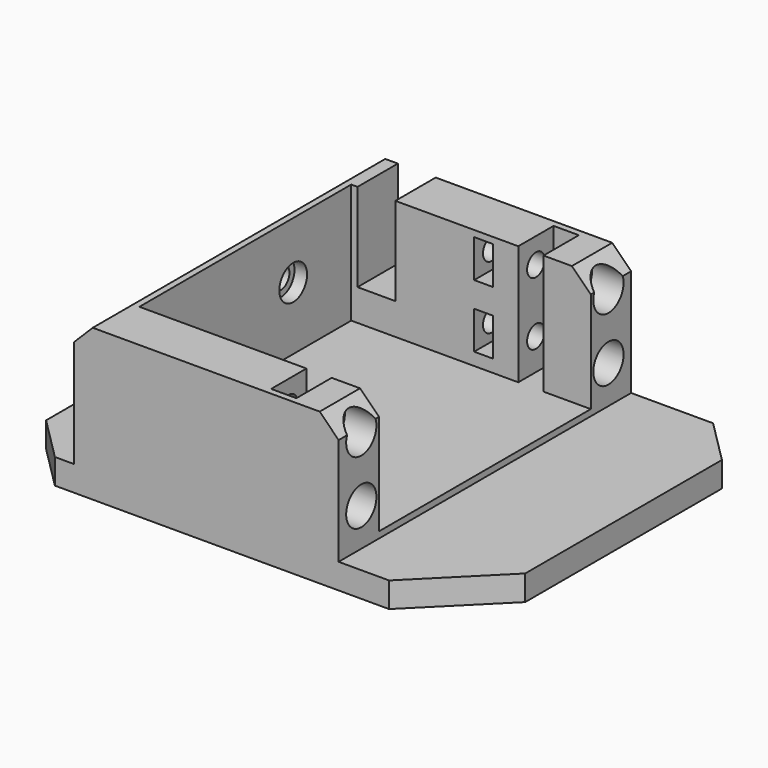
from build123d import *

# Parameters (mm, degrees)
BOX056_W                = 72
BOX056_H                = 58
BOX056_DEPTH            = 4
BOX024_W                = 6
BOX024_H                = 36
BOX024_DEPTH            = 23
CYLINDER011_R           = 2.75
CYLINDER011_DEPTH       = 74.5
CYLINDER011_PITCH_ANGLE = 90
CYLINDER008_R           = 1.75
CYLINDER008_DEPTH       = 21.5
CYLINDER008_PITCH_ANGLE = 90
CYLINDER009_R           = 3
CYLINDER009_DEPTH       = 21.5
CYLINDER009_PITCH_ANGLE = 90
BOX007_W                = 3
BOX007_H                = 56
BOX007_DEPTH            = 6
BOX008_W                = 3
BOX008_H                = 56
BOX008_DEPTH            = 6
BOX006_W                = 4
BOX006_H                = 56
BOX006_DEPTH            = 21
CYLINDER003_R           = 1.75
CYLINDER003_DEPTH       = 74.5
CYLINDER003_PITCH_ANGLE = 90
BOX003_W                = 28
BOX003_H                = 88
BOX003_DEPTH            = 38
BOX002_W                = 28
BOX002_H                = 88
BOX002_DEPTH            = 38
BOX001_W                = 47
BOX001_H                = 42
BOX001_DEPTH            = 25
BOX_W                   = 72
BOX_H                   = 58
BOX_DEPTH               = 24
FILLET_R                = 10
CHAMFER_SIZE            = 3
CHAMFER110_1_SIZE       = 12
CHAMFER110_2_SIZE       = 7


with BuildPart() as cubo006:
    # Box056 → Box056 (new body)
    with BuildSketch(Plane(origin=(-15, -29, -2), x_dir=(1, 0, 0), z_dir=(0, 0, 1))):
        with Locations((36, 29)):
            Rectangle(BOX056_W, BOX056_H)
    extrude(amount=BOX056_DEPTH)


with BuildPart() as cube024:
    # Box024 → Box024 (new body)
    with BuildSketch(Plane(origin=(0, 19, 7), x_dir=(1, 0, 0), z_dir=(0, 0, 1))):
        with Locations((3, 18)):
            Rectangle(BOX024_W, BOX024_H)
    extrude(amount=BOX024_DEPTH)


with BuildPart() as joint_d013:
    # Cylinder011 → Cylinder011 (new body)
    with BuildSketch(Plane.XY):
        Circle(CYLINDER011_R)
    extrude(amount=CYLINDER011_DEPTH)


with BuildPart() as joint_d013_1:
    # Cylinder011 pitch: moved
    add(joint_d013.part.rotate(Axis((0, 0, 0), (0, 1, 0)), CYLINDER011_PITCH_ANGLE))


with BuildPart() as joint_d013_2:
    # Cylinder011 placement: moved
    add(joint_d013_1.part.moved(Location((-3, 9.5, 12))))


with BuildPart() as joint_d010:
    # Cylinder008 → Cylinder008 (new body)
    with BuildSketch(Plane.XY):
        Circle(CYLINDER008_R)
    extrude(amount=CYLINDER008_DEPTH)


with BuildPart() as joint_d010_1:
    # Cylinder008 pitch: moved
    add(joint_d010.part.rotate(Axis((0, 0, 0), (0, 1, 0)), CYLINDER008_PITCH_ANGLE))


with BuildPart() as joint_d010_2:
    # Cylinder008 placement: moved
    add(joint_d010_1.part.moved(Location((16, -24.5, 7))))


with BuildPart() as joint_d011:
    # Cylinder009 → Cylinder009 (new body)
    with BuildSketch(Plane.XY):
        Circle(CYLINDER009_R)
    extrude(amount=CYLINDER009_DEPTH)


with BuildPart() as joint_d011_1:
    # Cylinder009 pitch: moved
    add(joint_d011.part.rotate(Axis((0, 0, 0), (0, 1, 0)), CYLINDER009_PITCH_ANGLE))


with BuildPart() as joint_d011_2:
    # Cylinder009 placement: moved
    add(joint_d011_1.part.moved(Location((32, -24.5, 7))))


with BuildPart() as fusion001:
    # Fusion001 base: copy of Joint-D011
    add(joint_d011_2.part)

    # Fusion001: union Joint-D010
    add(joint_d010_2.part)


with BuildPart() as fusion002:
    # Fusion002 base: copy of Joint-D011
    add(joint_d011_2.part)

    # Fusion002: union Joint-D010
    add(joint_d010_2.part)


with BuildPart() as fusion002_1:
    # Fusion002 placement: moved
    add(fusion002.part.moved(Location((0, 0, 10))))


with BuildPart() as fusion003:
    # Fusion003 base: copy of Joint-D011
    add(joint_d011_2.part)

    # Fusion003: union Joint-D010
    add(joint_d010_2.part)


with BuildPart() as fusion003_1:
    # Fusion003 placement: moved
    add(fusion003.part.moved(Location((0, 49, 0))))


with BuildPart() as fusion004:
    # Fusion004 base: copy of Joint-D011
    add(joint_d011_2.part)

    # Fusion004: union Joint-D010
    add(joint_d010_2.part)


with BuildPart() as fusion004_1:
    # Fusion004 placement: moved
    add(fusion004.part.moved(Location((0, 49, 10))))


with BuildPart() as cube007:
    # Box007 → Box007 (new body)
    with BuildSketch(Plane(origin=(18.5, -28, 4), x_dir=(1, 0, 0), z_dir=(0, 0, 1))):
        with Locations((1.5, 28)):
            Rectangle(BOX007_W, BOX007_H)
    extrude(amount=BOX007_DEPTH)


with BuildPart() as cube008:
    # Box008 → Box008 (new body)
    with BuildSketch(Plane(origin=(18.5, -28, 14), x_dir=(1, 0, 0), z_dir=(0, 0, 1))):
        with Locations((1.5, 28)):
            Rectangle(BOX008_W, BOX008_H)
    extrude(amount=BOX008_DEPTH)


with BuildPart() as cube006:
    # Box006 → Box006 (new body)
    with BuildSketch(Plane(origin=(25.5, -28, 2), x_dir=(1, 0, 0), z_dir=(0, 0, 1))):
        with Locations((2, 28)):
            Rectangle(BOX006_W, BOX006_H)
    extrude(amount=BOX006_DEPTH)


with BuildPart() as joint_d005:
    # Cylinder003 → Cylinder003 (new body)
    with BuildSketch(Plane.XY):
        Circle(CYLINDER003_R)
    extrude(amount=CYLINDER003_DEPTH)


with BuildPart() as joint_d005_1:
    # Cylinder003 pitch: moved
    add(joint_d005.part.rotate(Axis((0, 0, 0), (0, 1, 0)), CYLINDER003_PITCH_ANGLE))


with BuildPart() as joint_d005_2:
    # Cylinder003 placement: moved
    add(joint_d005_1.part.moved(Location((-22, 9.5, 12))))


with BuildPart() as cube003:
    # Box003 → Box003 (new body)
    with BuildSketch(Plane(origin=(-33, -45, 1), x_dir=(1, 0, 0), z_dir=(0, 0, 1))):
        with Locations((14, 44)):
            Rectangle(BOX003_W, BOX003_H)
    extrude(amount=BOX003_DEPTH)


with BuildPart() as cube002:
    # Box002 → Box002 (new body)
    with BuildSketch(Plane(origin=(37, -45, 1), x_dir=(1, 0, 0), z_dir=(0, 0, 1))):
        with Locations((14, 44)):
            Rectangle(BOX002_W, BOX002_H)
    extrude(amount=BOX002_DEPTH)


with BuildPart() as cube001:
    # Box001 → Box001 (new body)
    with BuildSketch(Plane(origin=(-1, -21, 2), x_dir=(1, 0, 0), z_dir=(0, 0, 1))):
        with Locations((23.5, 21)):
            Rectangle(BOX001_W, BOX001_H)
    extrude(amount=BOX001_DEPTH)


with BuildPart() as obj1:
    # Box → Box (new body)
    with BuildSketch(Plane(origin=(-15, -29, -3), x_dir=(1, 0, 0), z_dir=(0, 0, 1))):
        with Locations((36, 29)):
            Rectangle(BOX_W, BOX_H)
    extrude(amount=BOX_DEPTH)

    # Cut: cut Cube001
    add(cube001.part, mode=Mode.SUBTRACT)

    # Cut001: cut Cube002
    add(cube002.part, mode=Mode.SUBTRACT)

    # Cut002: cut Cube003
    add(cube003.part, mode=Mode.SUBTRACT)

    # Fillet
    fillet_edges = [obj1.edges().sort_by_distance(p)[0] for p in [
        (-15, -29, -1),
        (-15, 29, -1),
        (57, -29, -1),
        (57, 29, -1),
    ]]
    fillet(fillet_edges, radius=FILLET_R)

    # Chamfer
    chamfer_edges = [obj1.edges().sort_by_distance(p)[0] for p in [
        (-5, 0, 21),
        (37, 25, 21),
        (37, -25, 21),
    ]]
    chamfer(chamfer_edges, length=CHAMFER_SIZE)

    # Cut008: cut Joint-D005
    add(joint_d005_2.part, mode=Mode.SUBTRACT)

    # Cut010: cut Cube006
    add(cube006.part, mode=Mode.SUBTRACT)

    # Cut011: cut Cube008
    add(cube008.part, mode=Mode.SUBTRACT)

    # Cut012: cut Cube007
    add(cube007.part, mode=Mode.SUBTRACT)

    # Cut013: cut Fusion004
    add(fusion004_1.part, mode=Mode.SUBTRACT)

    # Cut014: cut Fusion003
    add(fusion003_1.part, mode=Mode.SUBTRACT)

    # Cut015: cut Fusion002
    add(fusion002_1.part, mode=Mode.SUBTRACT)

    # Cut016: cut Fusion001
    add(fusion001.part, mode=Mode.SUBTRACT)

    # Cut017: cut Joint-D013
    add(joint_d013_2.part, mode=Mode.SUBTRACT)

    # Cut039: cut Cube024
    add(cube024.part, mode=Mode.SUBTRACT)


with BuildPart() as obj1_1:
    # Cut039 placement: moved
    add(obj1.part.moved(Location((0, 0, 1))))

    # Fusion060: union Cubo006
    add(cubo006.part)

    # Chamfer110 1
    chamfer110_1_edges = [obj1_1.edges().sort_by_distance(p)[0] for p in [
        (57, -29, 0),
    ]]
    chamfer(chamfer110_1_edges, length=CHAMFER110_1_SIZE)

    # Chamfer110 2
    chamfer110_2_edges = [obj1_1.edges().sort_by_distance(p)[0] for p in [
        (-15, -29, 0),
        (57, 29, 0),
        (-15, 29, 0),
    ]]
    chamfer(chamfer110_2_edges, length=CHAMFER110_2_SIZE)


solid = obj1_1.part
